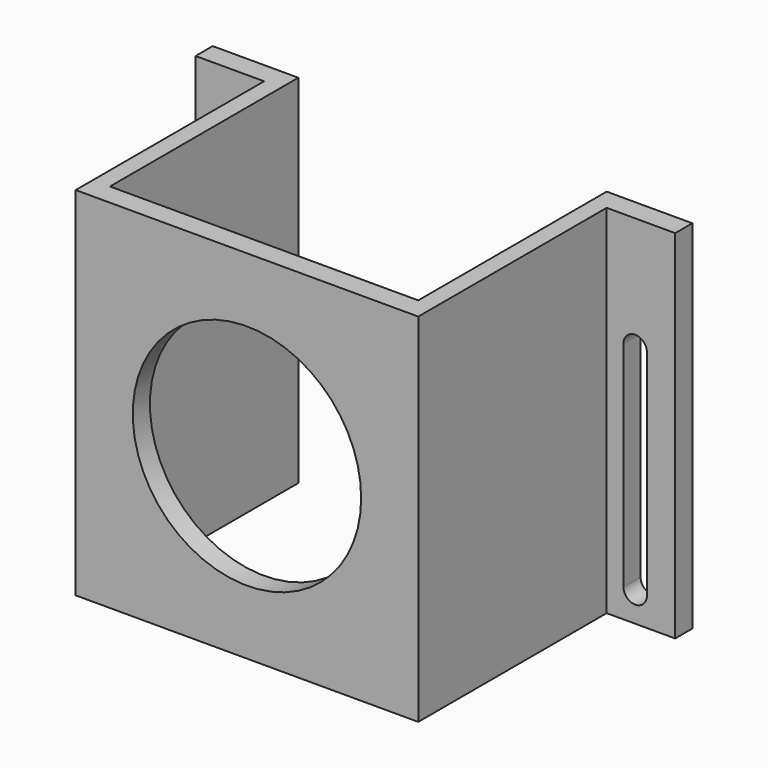
from build123d import *

# Parameters (mm, degrees)
F0_W     = 48
F0_H     = 50
F0_R     = 16
F1_DEPTH = 3
F2_W     = 2.4
F2_H     = 50
F3_DEPTH = 30
F4_W     = 12
F4_H     = 50
F5_DEPTH = 3


with BuildPart() as f1:
    # F0 (on Front) → F1 (new body)
    with BuildSketch(Plane.XZ):
        Rectangle(F0_W, F0_H)
        Circle(F0_R, mode=Mode.SUBTRACT)
    extrude(amount=F1_DEPTH)

    # F2 (on face) → F3 (join)
    with BuildSketch(Plane(origin=(0, 0, 0), x_dir=(-1, 0, 0), z_dir=(0, 1, 0))):
        with Locations((-22.8, 0)):
            Rectangle(F2_W, F2_H)
        with Locations((22.8, 0)):
            Rectangle(F2_W, F2_H)
    extrude(amount=F3_DEPTH)

    # F4 (on face) → F5 (join)
    with BuildSketch(Plane(origin=(0, 30, 0), x_dir=(-1, 0, 0), z_dir=(0, 1, 0))):
        with Locations((-27.6, 0)):
            Rectangle(F4_W, F4_H)
        with BuildLine():
            Line((-29.65, -21), (-29.65, 9))
            ThreePointArc((-29.65, 9), (-28, 10.65), (-26.35, 9))
            Line((-26.35, 9), (-26.35, -21))
            ThreePointArc((-26.35, -21), (-28, -22.65), (-29.65, -21))
        make_face(mode=Mode.SUBTRACT)
        with Locations((27.6, 0)):
            Rectangle(F4_W, F4_H)
        with BuildLine():
            Line((26.35, -21), (26.35, 9))
            ThreePointArc((26.35, 9), (28, 10.65), (29.65, 9))
            Line((29.65, 9), (29.65, -21))
            ThreePointArc((29.65, -21), (28, -22.65), (26.35, -21))
        make_face(mode=Mode.SUBTRACT)
    extrude(amount=F5_DEPTH)


with BuildPart() as f6_1:
    # F6: copy of F1
    add(f1.part)


solid = Compound([f1.part, f6_1.part])
